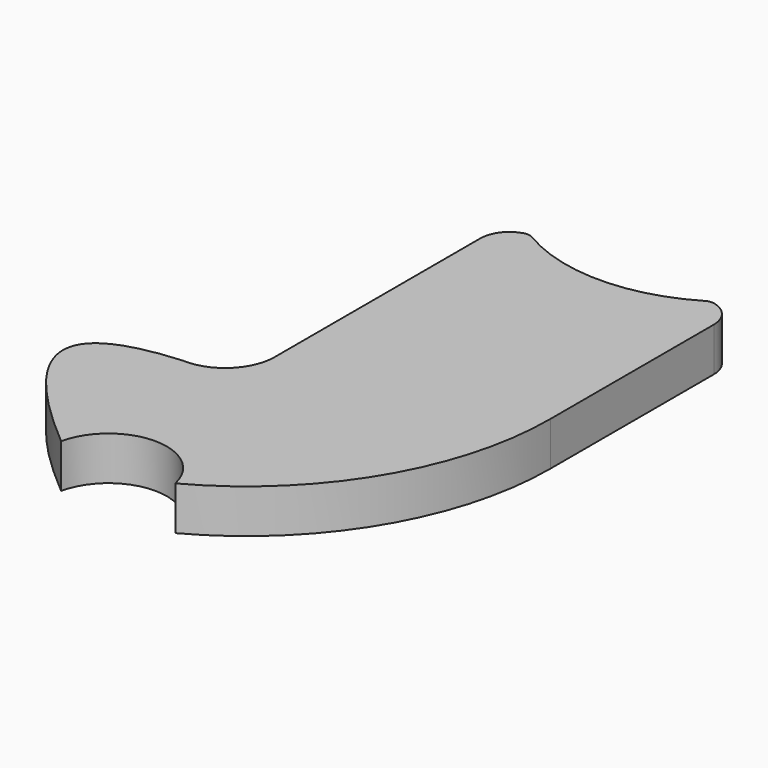
from build123d import *

# Parameters (mm, degrees)
F1_DEPTH = 9.525


with BuildPart() as f1:
    # F0 (on Top) → F1 (new body)
    with BuildSketch(Plane.XY):
        with BuildLine():
            Line((-4.50409, 82.16696), (-4.50409, 26.28696))
            ThreePointArc((-4.50409, 26.28696), (-7.878907, 18.441342), (-15.895572, 15.495804))
            add(Edge.make_bspline(
                [(-15.895572, 15.495804), (-43.221034, 13.571337), (-37.874747, 0), (-13.493431, -20.583188)],
                knots=[0, 0, 0, 0, 36.15887, 36.15887, 36.15887, 36.15887], degree=3))
            ThreePointArc((-13.493431, -20.583188), (-1.07509, -10.54304), (11.343251, -20.583188))
            ThreePointArc((11.343251, -20.583188), (36.888253, 3.729479), (46.29591, 37.71696))
            Line((46.29591, 37.71696), (46.29591, 54.61071))
            Line((46.29591, 54.61071), (46.29591, 82.16696))
            ThreePointArc((46.29591, 82.16696), (44.980282, 86.037051), (41.578555, 88.303488))
            ThreePointArc((41.578555, 88.303488), (40.57581, 88.364691), (39.627767, 88.032337))
            ThreePointArc((39.627767, 88.032337), (20.86164, 82.871538), (2.09044, 88.013855))
            ThreePointArc((2.09044, 88.013855), (1.118812, 88.348375), (0.094162, 88.270556))
            ThreePointArc((0.094162, 88.270556), (-3.22588, 85.987883), (-4.50409, 82.16696))
        make_face()
    extrude(amount=F1_DEPTH)


solid = f1.part
